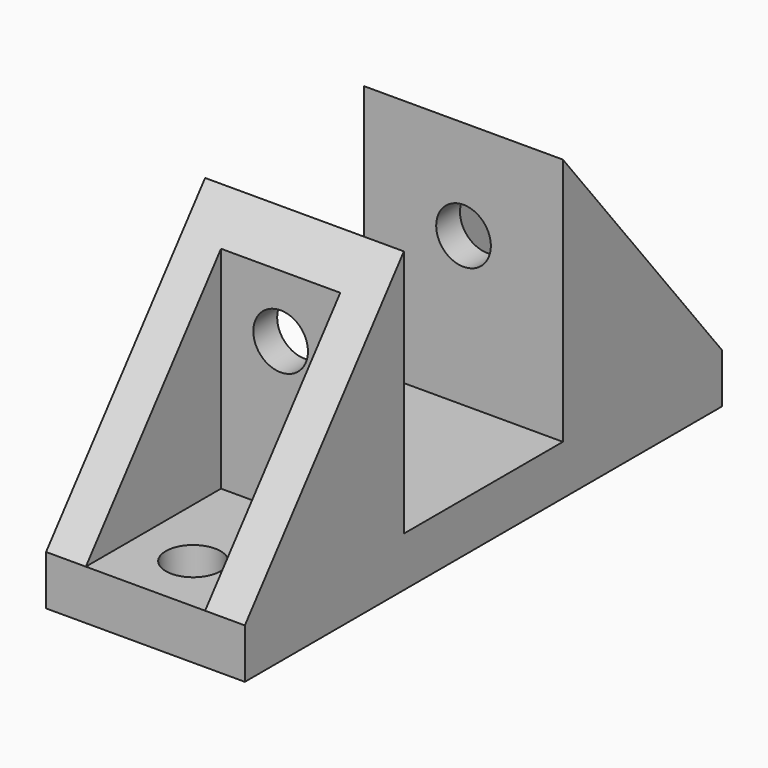
from build123d import *

# Parameters (mm, degrees)
F1_DEPTH  = 30
F2_W      = 20
F2_H      = 25
F3_DEPTH  = 25
F5_W      = 12
F5_H      = 25
F6_DEPTH  = 17
F7_D      = 5.5
F7_DEPTH  = 40.001
F9_D      = 5.5
F10_W     = 12
F10_H     = 25
F11_DEPTH = 17
F13_D     = 5.5


with BuildPart() as f1:
    # F0 (on Top) → F1 (new body)
    with BuildSketch(Plane.XY):
        Polygon((-10, 20), (-10, 0), (-10, -20), (10, -20), (10, 0), (10, 20), (10, 40), (-10, 40), align=None)
    extrude(amount=F1_DEPTH)

    # F2 (on face) → F3 (cut)
    with BuildSketch(Plane(origin=(-10, 0, 0), x_dir=(0, -1, 0), z_dir=(-1, 0, 0))):
        Polygon((-40, 5), (-20, 30), (-40, 30), align=None)
        with Locations((-10, 17.5)):
            Rectangle(F2_W, F2_H)
        Polygon((20, 30), (0, 30), (20, 5), align=None)
    extrude(amount=-F3_DEPTH, mode=Mode.SUBTRACT)

    # F5 (on face) → F6 (cut)
    with BuildSketch(Plane(origin=(0, 40, 0), x_dir=(-1, 0, 0), z_dir=(0, 1, 0))):
        with Locations((0, 17.5)):
            Rectangle(F5_W, F5_H)
    extrude(amount=-F6_DEPTH, mode=Mode.SUBTRACT)

    # F7 (through all, one way)
    with BuildSketch(Plane(origin=(0, 0, 0), x_dir=(-1, 0, 0), z_dir=(0, -1, 0))):
        with Locations((0, -20)):
            Circle(F7_D / 2)
    extrude(amount=-F7_DEPTH, mode=Mode.SUBTRACT)

    # F9 (through all)
    with Locations(Plane(origin=(0, 20, 0), x_dir=(1, 0, 0), z_dir=(0, 1, 0))):
        with Locations((0, -20)):
            Hole(F9_D / 2)

    # F10 (on face) → F11 (cut)
    with BuildSketch(Plane.XZ.offset(20)):
        with Locations((0, 17.5)):
            Rectangle(F10_W, F10_H)
    extrude(amount=-F11_DEPTH, mode=Mode.SUBTRACT)

    # F13 (through all)
    with Locations(Plane.XY.offset(5)):
        with Locations((0, 34), (0, -14)):
            Hole(F13_D / 2)


solid = f1.part
